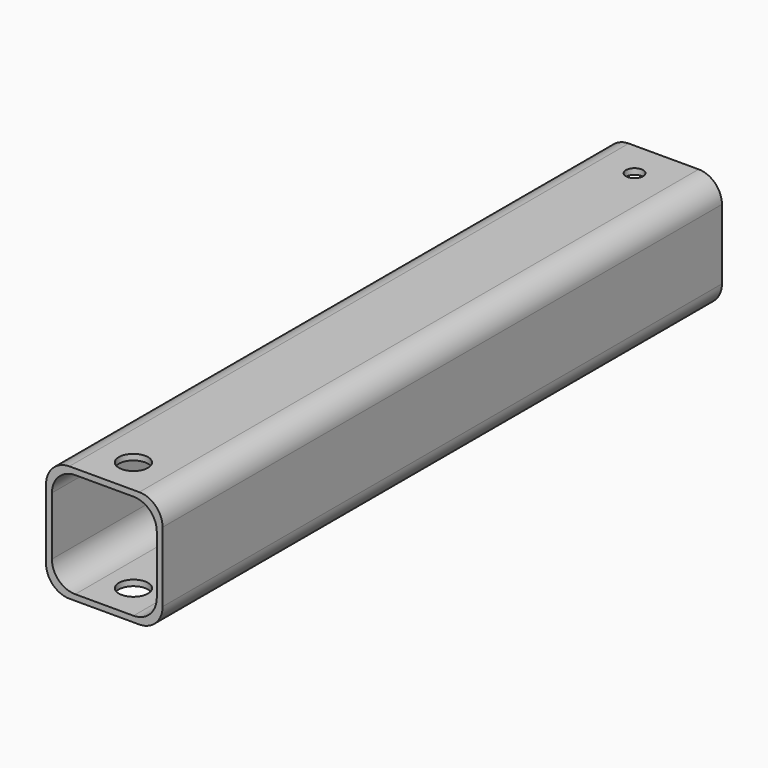
from build123d import *

# Parameters (mm, degrees)
F0_W     = 25.4
F0_H     = 25.4
F0_W_2   = 22.86
F0_H_2   = 22.86
F1_DEPTH = 152.4
F2_R     = 5.08
F3_R     = 1.857445
F4_DEPTH = 25.401
F6_R     = 3.175
F7_DEPTH = 25.401


with BuildPart() as f1:
    # F0 (on Front) → F1 (new body)
    with BuildSketch(Plane.XZ):
        Rectangle(F0_W, F0_H)
        Rectangle(F0_W_2, F0_H_2, mode=Mode.SUBTRACT)
    extrude(amount=F1_DEPTH)

    # F2
    f2_edges = [f1.edges().sort_by_distance(p)[0] for p in [
        (12.7, -76.2, 12.7),
        (-12.7, -76.2, 12.7),
        (12.7, -76.2, -12.7),
        (-12.7, -76.2, -12.7),
        (11.43, -76.2, 11.43),
        (-11.43, -76.2, 11.43),
        (11.43, -76.2, -11.43),
        (-11.43, -76.2, -11.43),
    ]]
    fillet(f2_edges, radius=F2_R)

    # F3 (on face) → F4 (cut, through all)
    with BuildSketch(Plane.XY.offset(12.7)):
        with Locations((0, -7.9248)):
            Circle(F3_R)
    extrude(amount=-F4_DEPTH, mode=Mode.SUBTRACT)

    # F6 (on face) → F7 (cut, through all)
    with BuildSketch(Plane.XY.offset(12.7)):
        with Locations((0, -144.4752)):
            Circle(F6_R)
    extrude(amount=-F7_DEPTH, mode=Mode.SUBTRACT)


solid = f1.part
